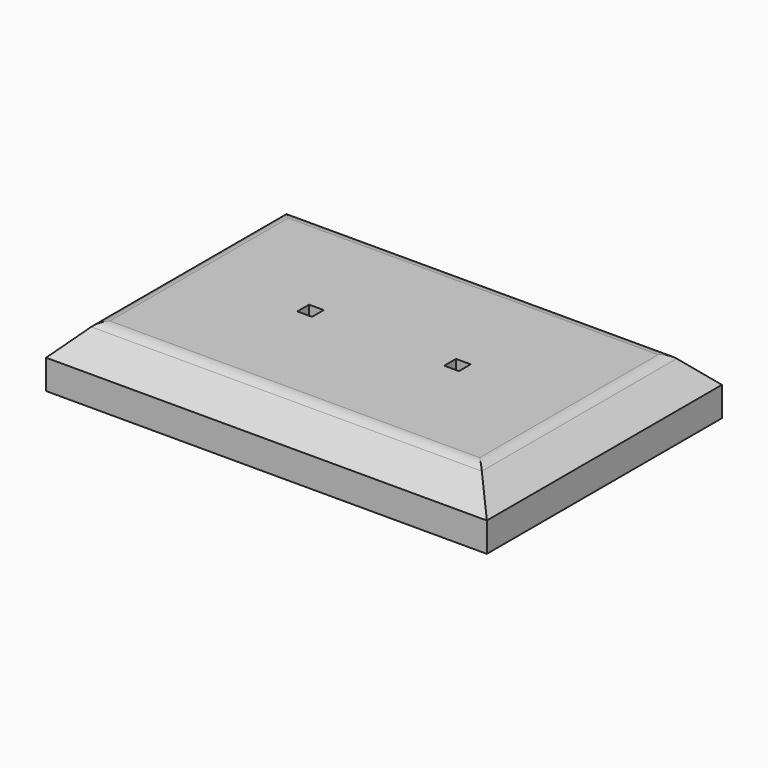
from build123d import *

# Parameters (mm, degrees)
F0_W     = 150
F0_H     = 100
F1_DEPTH = 20
F2_SIZE  = 10
F3_W     = 2.5
F3_H     = 2.5
F4_DEPTH = 10
F5_R     = 5


with BuildPart() as f1:
    # F0 (on Top) → F1 (new body)
    with BuildSketch(Plane.XY):
        with Locations((9.132270515, -50)):
            Rectangle(F0_W, F0_H)
    extrude(amount=F1_DEPTH)

    # F2
    f2_edges = [f1.edges().sort_by_distance(p)[0] for p in [
        (9.132271, -100, 20),
        (-65.867729, -50, 20),
        (9.132271, 0, 20),
        (84.132271, -50, 20),
    ]]
    chamfer(f2_edges, length=F2_SIZE)

    # F3 (on face) → F4 (cut)
    with BuildSketch(Plane.XY.offset(20)):
        Polygon((-18.367729485, -47.5), (-18.367729485, -50), (-15.867729485, -50), (-13.367729485, -50), (-13.367729485, -47.5), (-15.867729485, -47.5), align=None)
        Polygon((-15.867729485, -50), (-18.367729485, -50), (-18.367729485, -52.5), (-13.367729485, -52.5), (-13.367729485, -50), align=None)
        with Locations((32.882270515, -48.75)):
            Rectangle(F3_W, F3_H)
        Polygon((34.132270515, -50), (31.632270515, -50), (31.632270515, -52.5), (36.632270515, -52.5), (36.632270515, -50), align=None)
        with Locations((35.382270515, -48.75)):
            Rectangle(F3_W, F3_H)
    extrude(amount=-F4_DEPTH, mode=Mode.SUBTRACT)

    # F5
    f5_edges = [f1.edges().sort_by_distance(p)[0] for p in [
        (9.132271, -90, 20),
        (-55.867729, -50, 20),
        (74.132271, -50, 20),
        (9.132271, -10, 20),
    ]]
    fillet(f5_edges, radius=F5_R)


solid = f1.part
